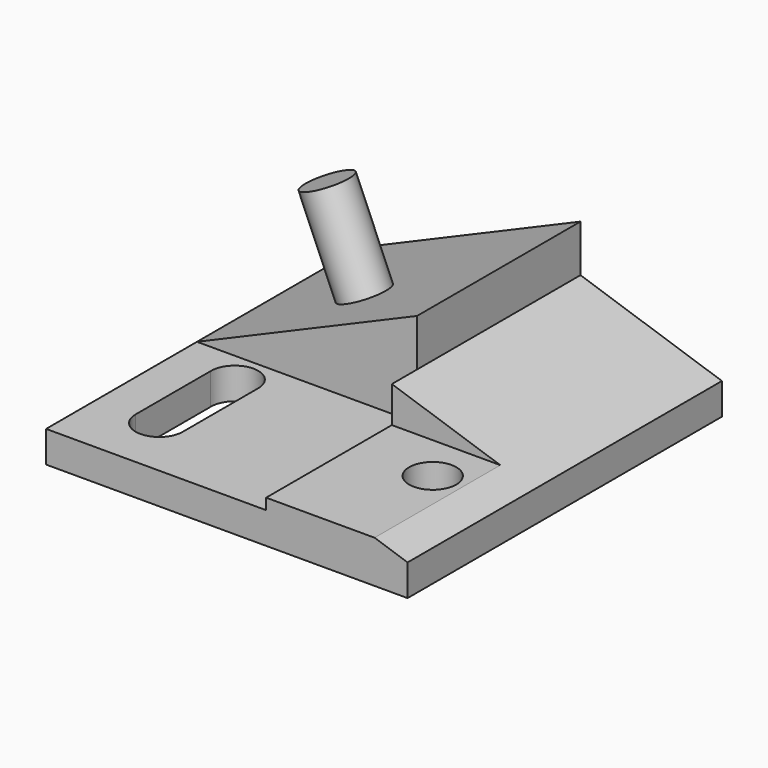
from build123d import *

# Parameters (mm, degrees)
PAD_DEPTH       = 25
POCKET_DEPTH    = 12
SKETCH002_R     = 1.5
PAD001_DEPTH    = 6
POCKET001_DEPTH = 2.001
SKETCH004_W     = 2.3
SKETCH004_H     = 10
POCKET002_DEPTH = 9.001
SKETCH005_R     = 1.5
HOLE_DEPTH      = 2.701


with BuildPart() as part:
    # Sketch → Pad (new body)
    with BuildSketch(Plane.XZ):
        Polygon((0, 0), (0, 2), (14, 8), (14, 5), (23, 2), (23, 0), align=None)
    extrude(amount=PAD_DEPTH)

    # Sketch001 (on Face8 of Pad) → Pocket (cut)
    with BuildSketch(Plane.XZ.offset(25)):
        Polygon((0, 2), (14, 2), (14, 8), align=None)
    extrude(amount=-POCKET_DEPTH, mode=Mode.SUBTRACT)

    # Sketch002 (on Face3 of Pocket) → Pad001 (join)
    with BuildSketch(Plane(origin=(-0.724138, 0, 1.689655), x_dir=(-0.919145, 0, -0.393919), z_dir=(-0.393919, 0, 0.919145))):
        with Locations((-8.019385, 8)):
            Circle(SKETCH002_R)
    extrude(amount=PAD001_DEPTH)

    # Sketch003 (on Face4 of Pad001) → Pocket001 (cut, through all)
    with BuildSketch(Plane(origin=(0, 0, 2), x_dir=(-1, 0, 0), z_dir=(0, 0, 1))):
        with BuildLine():
            ThreePointArc((-2.500319, 21.030919), (-4.030919, 22.499681), (-5.499681, 20.969081))
            Line((-5.499681, 14.969081), (-5.499681, 20.969081))
            ThreePointArc((-5.499681, 14.969081), (-3.969081, 13.500319), (-2.500319, 15.030919))
            Line((-2.500319, 15.030919), (-2.500319, 21.030919))
        make_face()
    extrude(amount=-POCKET001_DEPTH, mode=Mode.SUBTRACT)

    # Sketch004 (on Face15 of Pocket001) → Pocket002 (cut, through all)
    with BuildSketch(Plane(origin=(14, 0, 0), x_dir=(0, 0, -1), z_dir=(-1, 0, 0))):
        with Locations((-3.85, 20)):
            Rectangle(SKETCH004_W, SKETCH004_H)
    extrude(amount=-POCKET002_DEPTH, mode=Mode.SUBTRACT)

    # Sketch005 (on Face17 of Pocket002) → Hole (cut, through all)
    with BuildSketch(Plane(origin=(0, 0, 2.7), x_dir=(-1, 0, 0), z_dir=(0, 0, 1))):
        with Locations((-19, 18)):
            Circle(SKETCH005_R)
    extrude(amount=-HOLE_DEPTH, mode=Mode.SUBTRACT)


solid = part.part
